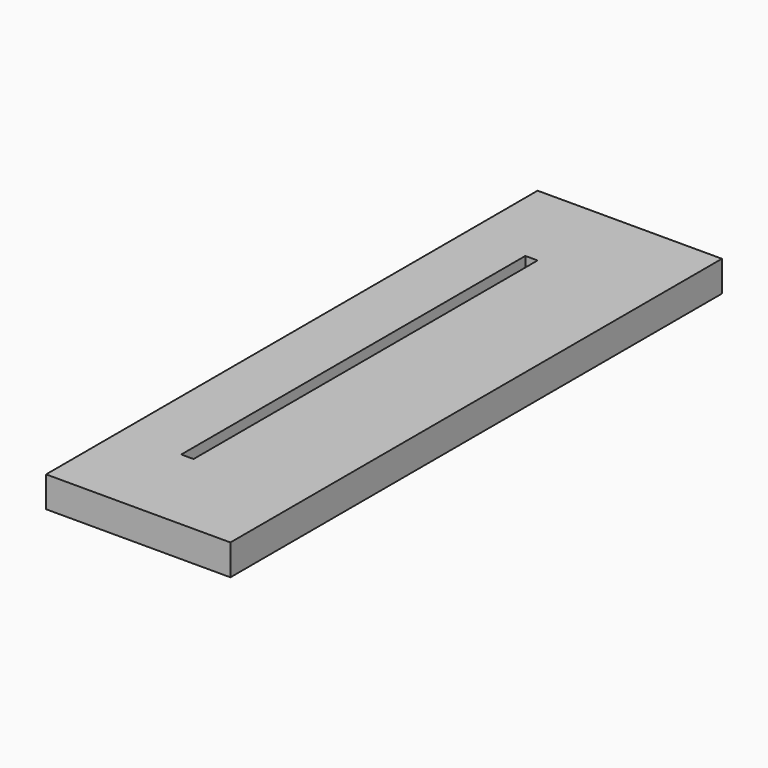
from build123d import *

# Parameters (mm, degrees)
BOX008_W     = 2
BOX008_H     = 70
BOX008_DEPTH = 5
BOX007_W     = 30
BOX007_H     = 100
BOX007_DEPTH = 5


with BuildPart() as obj1:
    # Box008 → Box008 (new body)
    with BuildSketch(Plane(origin=(10, 15, 0), x_dir=(1, 0, 0), z_dir=(0, 0, 1))):
        with Locations((1, 35)):
            Rectangle(BOX008_W, BOX008_H)
    extrude(amount=BOX008_DEPTH)


with BuildPart() as top_plate:
    # Box007 → Box007 (new body)
    with BuildSketch(Plane.XY):
        with Locations((15, 50)):
            Rectangle(BOX007_W, BOX007_H)
    extrude(amount=BOX007_DEPTH)

    # Cut004: cut obj1
    add(obj1.part, mode=Mode.SUBTRACT)


solid = top_plate.part
